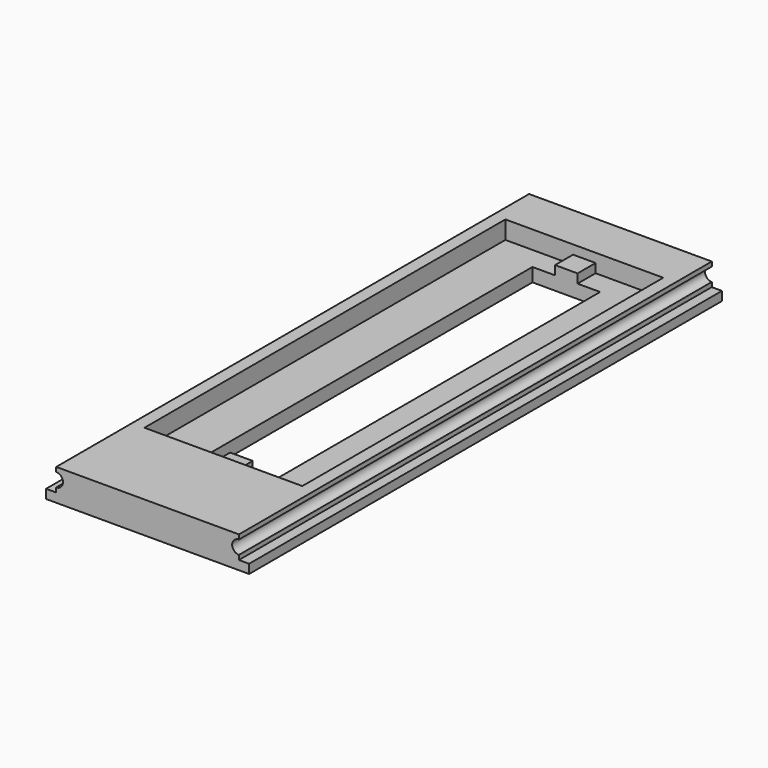
from build123d import *

# Parameters (mm, degrees)
F0_W      = 45
F0_H      = 131
F1_DEPTH  = 2
F2_W      = 40.5
F2_H      = 131
F3_DEPTH  = 5
F5_W      = 35
F5_H      = 100
F6_DEPTH  = 4
F7_W      = 5
F7_H      = 100
F8_DEPTH  = 2
F4_W      = 15
F4_H      = 90
F9_DEPTH  = 7.001
F10_R     = 1.5
F11_DEPTH = 131.001


with BuildPart() as f1:
    # F0 (on Top) → F1 (new body)
    with BuildSketch(Plane.XY):
        with Locations((22.5, 65.5)):
            Rectangle(F0_W, F0_H)
    extrude(amount=F1_DEPTH)

    # F2 (on face) → F3 (join)
    with BuildSketch(Plane.XY.offset(2)):
        with Locations((22.5, 65.5)):
            Rectangle(F2_W, F2_H)
    extrude(amount=F3_DEPTH)

    # F5 (on face) → F6 (cut)
    with BuildSketch(Plane.XY.offset(7)):
        with Locations((22.5, 71)):
            Rectangle(F5_W, F5_H)
    extrude(amount=-F6_DEPTH, mode=Mode.SUBTRACT)

    # F7 (on face) → F8 (join)
    with BuildSketch(Plane.XY.offset(3)):
        with Locations((22.5, 71)):
            Rectangle(F7_W, F7_H)
    extrude(amount=F8_DEPTH)

    # F4 (on face) → F9 (cut, through all)
    with BuildSketch(Plane.XY.offset(7)):
        with Locations((22.5, 71)):
            Rectangle(F4_W, F4_H)
    extrude(amount=-F9_DEPTH, mode=Mode.SUBTRACT)

    # F10 (on face) → F11 (cut, through all)
    with BuildSketch(Plane(origin=(0, 131, 0), x_dir=(-1, 0, 0), z_dir=(0, 1, 0))):
        with Locations((-42.75, 4.5)):
            Circle(F10_R)
        with Locations((-2.25, 4.5)):
            Circle(F10_R)
    extrude(amount=-F11_DEPTH, mode=Mode.SUBTRACT)


solid = f1.part
